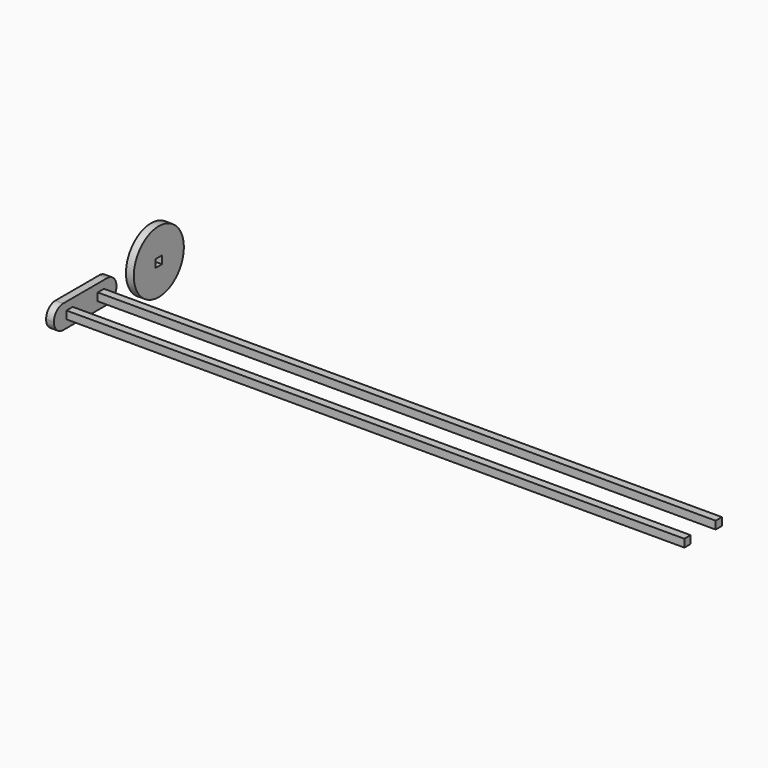
from build123d import *

# Parameters (mm, degrees)
F0_W     = 2
F0_H     = 2
F1_DEPTH = 2
F2_DEPTH = 160
F0_R     = 8
F3_DEPTH = 2


with BuildPart() as f1:
    # F0 (on Right) → F1 (new body)
    with BuildSketch(Plane.YZ):
        with BuildLine():
            ThreePointArc((10, 0), (9.12132, 2.12132), (7, 3))
            Line((7, 3), (-7, 3))
            ThreePointArc((-7, 3), (-9.12132, 2.12132), (-10, 0))
            ThreePointArc((-10, 0), (-9.12132, -2.12132), (-7, -3))
            Line((-7, -3), (7, -3))
            ThreePointArc((7, -3), (9.12132, -2.12132), (10, 0))
        make_face()
        with Locations((-5, 0)):
            Rectangle(F0_W, F0_H, mode=Mode.SUBTRACT)
        with Locations((5, 0)):
            Rectangle(F0_W, F0_H, mode=Mode.SUBTRACT)
        with Locations((-5, 0)):
            Rectangle(F0_W, F0_H)
        with Locations((5, 0)):
            Rectangle(F0_W, F0_H)
    extrude(amount=F1_DEPTH)

    # F0 (on Right) → F2 (join)
    with BuildSketch(Plane.YZ):
        with Locations((-5, 0)):
            Rectangle(F0_W, F0_H)
        with Locations((5, 0)):
            Rectangle(F0_W, F0_H)
    extrude(amount=F2_DEPTH)


with BuildPart() as f3:
    # F0 (on Right) → F3 (new body)
    with BuildSketch(Plane.YZ):
        with Locations((23.529518, 0)):
            Circle(F0_R)
        with Locations((23.529518, 0)):
            Rectangle(F0_W, F0_H, mode=Mode.SUBTRACT)
    extrude(amount=F3_DEPTH)


solid = Compound([f1.part, f3.part])
